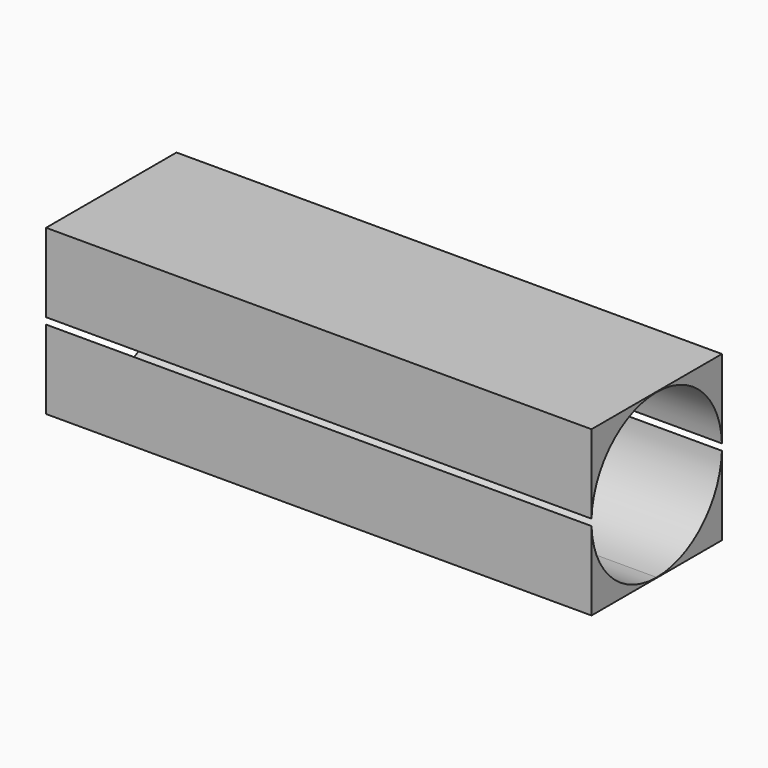
from build123d import *

# Parameters (mm, degrees)
F0_W     = 75.910814
F0_H     = 76.366283
F1_DEPTH = 254
F3_DEPTH = 254


with BuildPart() as f1:
    # F0 (on Right) → F1 (new body)
    with BuildSketch(Plane.YZ):
        with Locations((37.955407, 38.183141)):
            Rectangle(F0_W, F0_H)
    extrude(amount=F1_DEPTH)

    # F2 (on face) → F3 (cut)
    with BuildSketch(Plane.YZ.offset(254)):
        with BuildLine():
            ThreePointArc((75.940709, 38.183141), (64.815072, 65.042806), (37.955407, 76.168443))
            Line((37.955407, 76.168443), (37.955407, 0.19784))
            ThreePointArc((37.955407, 0.19784), (64.815072, 11.323477), (75.940709, 38.183141))
        make_face()
        with BuildLine():
            Line((37.955407, 0.19784), (37.955407, 76.168443))
            ThreePointArc((37.955407, 76.168443), (-0.029895, 38.183141), (37.955407, 0.19784))
        make_face()
    extrude(amount=-F3_DEPTH, mode=Mode.SUBTRACT)


solid = f1.part
